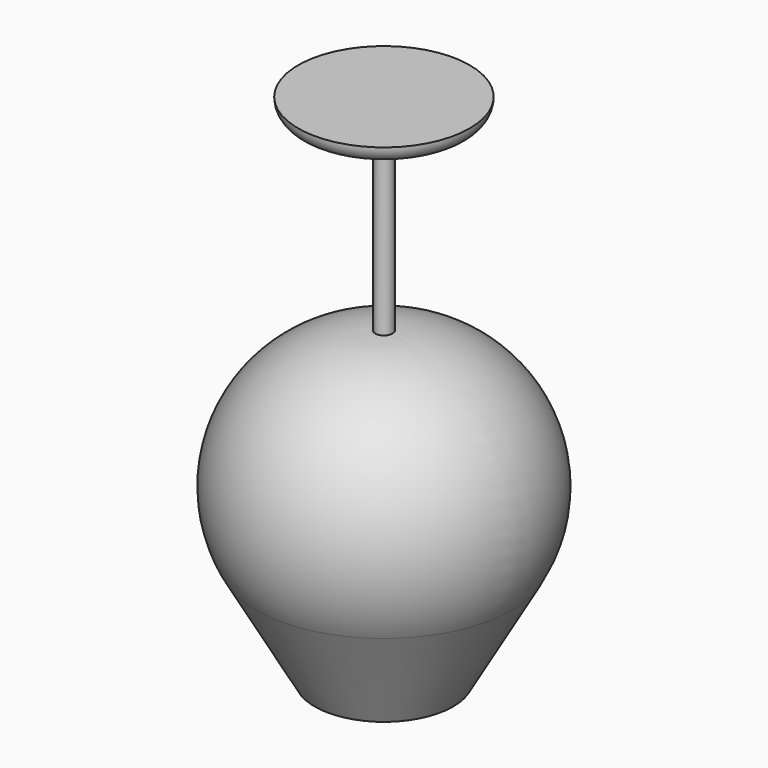
from build123d import *


with BuildPart() as f1:
    # F0 (on Front) → F1 (revolve)
    with BuildSketch(Plane.XZ):
        with BuildLine():
            Line((25, 0), (0, 0))
            Line((0, 0), (0, -150))
            Line((0, -150), (20.199546, -150))
            Line((20.199546, -150), (37.328972, -119.67086))
            ThreePointArc((37.328972, -119.67086), (37.045871, -79.836102), (2.5, -60))
            Line((2.5, -60), (2.5, -10))
            Line((2.5, -10), (21.326231, -4.820904))
            ThreePointArc((21.326231, -4.820904), (23.97688, -3.030581), (25, 0))
        make_face()
    revolve(axis=Axis((0, 0, -75), (0, 0, 1)))


solid = f1.part
